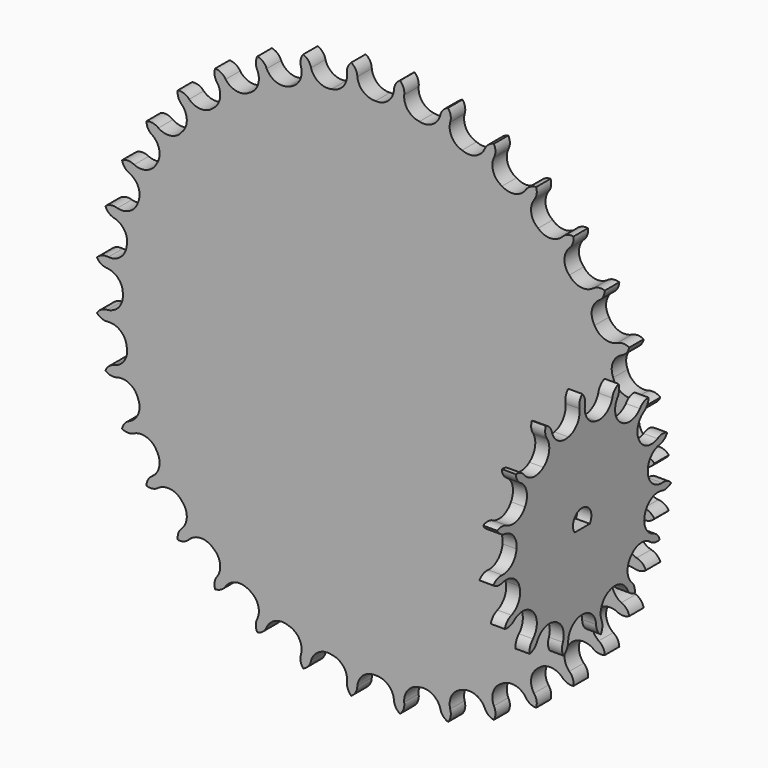
from build123d import *

# Parameters (mm, degrees)
F3_DEPTH  = 5
F4_DEPTH  = 3.8744
F5_SCALE  = 1.2905224035
F10_DEPTH = 5
F14_DEPTH = 5


with BuildPart() as f3:
    # F2 (on Front) → F3 (new body)
    with BuildSketch(Plane.XZ):
        with BuildLine():
            ThreePointArc((20.0489112304, -74.8235553482), (20.7684497693, -73.2376680729), (20.634084968, -71.5013730924))
            ThreePointArc((20.634084968, -71.5013730924), (21.1255658269, -67.9684537564), (23.9417031833, -65.7792888795))
            ThreePointArc((23.9417031833, -65.7792888795), (27.5061576147, -65.6461082686), (30.1535705707, -68.0365636874))
            ThreePointArc((30.1535705707, -68.0365636874), (31.1667100616, -69.4530108383), (32.7372972519, -70.2053605155))
            ThreePointArc((32.7372972519, -70.2053605155), (33.1705179483, -68.5186198753), (32.736689991, -66.8320353198))
            ThreePointArc((32.736689991, -66.8320353198), (32.6072191467, -63.2674442116), (35.0004285574, -60.6225205481))
            ThreePointArc((35.0004285574, -60.6225205481), (38.4876043464, -59.8724022336), (41.5098953781, -61.7668228279))
            ThreePointArc((41.5098953781, -61.7668228279), (42.7536064701, -62.9858211375), (44.4309770623, -63.4540113292))
            ThreePointArc((44.4309770623, -63.4540113292), (44.5647167245, -61.7176680849), (43.8446072542, -60.1320399728))
            ThreePointArc((43.8446072542, -60.1320399728), (43.0981186129, -56.6440853892), (44.9956836208, -53.6237676064))
            ThreePointArc((44.9956836208, -53.6237676064), (48.2996246956, -52.2795035536), (51.6049630194, -53.6203283123))
            ThreePointArc((51.6049630194, -53.6203283123), (53.0414561804, -54.6048391339), (54.7746441179, -54.7746441179))
            ThreePointArc((54.7746441179, -54.7746441179), (54.6048391339, -53.0414561804), (53.6203283123, -51.6049630194))
            ThreePointArc((53.6203283123, -51.6049630194), (52.2795035536, -48.2996246956), (53.6237676064, -44.9956836208))
            ThreePointArc((53.6237676064, -44.9956836208), (56.6440853892, -43.0981186129), (60.1320399728, -43.8446072542))
            ThreePointArc((60.1320399728, -43.8446072542), (61.7176680849, -44.5647167245), (63.4540113292, -44.4309770623))
            ThreePointArc((63.4540113292, -44.4309770623), (62.9858211375, -42.7536064701), (61.7668228279, -41.5098953781))
            ThreePointArc((61.7668228279, -41.5098953781), (59.8724022336, -38.4876043464), (60.6225205481, -35.0004285574))
            ThreePointArc((60.6225205481, -35.0004285574), (63.2674442116, -32.6072191467), (66.8320353198, -32.736689991))
            ThreePointArc((66.8320353198, -32.736689991), (68.5186198753, -33.1705179483), (70.2053605155, -32.7372972519))
            ThreePointArc((70.2053605155, -32.7372972519), (69.4530108383, -31.1667100616), (68.0365636874, -30.1535705707))
            ThreePointArc((68.0365636874, -30.1535705707), (65.6461082686, -27.5061576147), (65.7792888795, -23.9417031833))
            ThreePointArc((65.7792888795, -23.9417031833), (67.9684537564, -21.1255658269), (71.5013730924, -20.634084968))
            ThreePointArc((71.5013730924, -20.634084968), (73.2376680729, -20.7684497693), (74.8235553482, -20.0489112304))
            ThreePointArc((74.8235553482, -20.0489112304), (73.8099059497, -18.632828939), (72.2390479875, -17.88104478))
            ThreePointArc((72.2390479875, -17.88104478), (69.4251905225, -15.6889502028), (68.9373868041, -12.1555212731))
            ThreePointArc((68.9373868041, -12.1555212731), (70.6042762276, -9.0020228795), (73.9981778249, -7.9045237147))
            ThreePointArc((73.9981778249, -7.9045237147), (75.7314267861, -7.7353427534), (77.1682743143, -6.7513491864))
            ThreePointArc((77.1682743143, -6.7513491864), (75.9241244184, -5.5327987378), (74.2465853691, -5.0652124919))
            ThreePointArc((74.2465853691, -5.0652124919), (71.0948234931, -3.3950419779), (70.0008571148, 0))
            ThreePointArc((70.0008571148, 0), (71.0948234931, 3.3950419779), (74.2465853691, 5.0652124919))
            ThreePointArc((74.2465853691, 5.0652124919), (75.9241244184, 5.5327987378), (77.1682743143, 6.7513491864))
            ThreePointArc((77.1682743143, 6.7513491864), (75.7314267861, 7.7353427534), (73.9981778249, 7.9045237147))
            ThreePointArc((73.9981778249, 7.9045237147), (70.6042762276, 9.0020228795), (68.9373868041, 12.1555212731))
            ThreePointArc((68.9373868041, 12.1555212731), (69.4251905225, 15.6889502028), (72.2390479875, 17.88104478))
            ThreePointArc((72.2390479875, 17.88104478), (73.8099059497, 18.632828939), (74.8235553482, 20.0489112304))
            ThreePointArc((74.8235553482, 20.0489112304), (73.2376680729, 20.7684497693), (71.5013730924, 20.634084968))
            ThreePointArc((71.5013730924, 20.634084968), (67.9684537564, 21.1255658269), (65.7792888795, 23.9417031833))
            ThreePointArc((65.7792888795, 23.9417031833), (65.6461082686, 27.5061576147), (68.0365636874, 30.1535705707))
            ThreePointArc((68.0365636874, 30.1535705707), (69.4530108383, 31.1667100616), (70.2053605155, 32.7372972519))
            ThreePointArc((70.2053605155, 32.7372972519), (68.5186198753, 33.1705179483), (66.8320353198, 32.736689991))
            ThreePointArc((66.8320353198, 32.736689991), (63.2674442116, 32.6072191467), (60.6225205481, 35.0004285574))
            ThreePointArc((60.6225205481, 35.0004285574), (59.8724022336, 38.4876043464), (61.7668228279, 41.5098953781))
            ThreePointArc((61.7668228279, 41.5098953781), (62.9858211375, 42.7536064701), (63.4540113292, 44.4309770623))
            ThreePointArc((63.4540113292, 44.4309770623), (61.7176680849, 44.5647167245), (60.1320399728, 43.8446072542))
            ThreePointArc((60.1320399728, 43.8446072542), (56.6440853892, 43.0981186129), (53.6237676064, 44.9956836208))
            ThreePointArc((53.6237676064, 44.9956836208), (52.2795035536, 48.2996246956), (53.6203283123, 51.6049630194))
            ThreePointArc((53.6203283123, 51.6049630194), (54.6048391339, 53.0414561804), (54.7746441179, 54.7746441179))
            ThreePointArc((54.7746441179, 54.7746441179), (53.0414561804, 54.6048391339), (51.6049630194, 53.6203283123))
            ThreePointArc((51.6049630194, 53.6203283123), (48.2996246956, 52.2795035536), (44.9956836208, 53.6237676064))
            ThreePointArc((44.9956836208, 53.6237676064), (43.0981186129, 56.6440853892), (43.8446072542, 60.1320399728))
            ThreePointArc((43.8446072542, 60.1320399728), (44.5647167245, 61.7176680849), (44.4309770623, 63.4540113292))
            ThreePointArc((44.4309770623, 63.4540113292), (42.7536064701, 62.9858211375), (41.5098953781, 61.7668228279))
            ThreePointArc((41.5098953781, 61.7668228279), (38.4876043464, 59.8724022336), (35.0004285574, 60.6225205481))
            ThreePointArc((35.0004285574, 60.6225205481), (32.6072191467, 63.2674442116), (32.736689991, 66.8320353198))
            ThreePointArc((32.736689991, 66.8320353198), (33.1705179483, 68.5186198753), (32.7372972519, 70.2053605155))
            ThreePointArc((32.7372972519, 70.2053605155), (31.1667100616, 69.4530108383), (30.1535705707, 68.0365636874))
            ThreePointArc((30.1535705707, 68.0365636874), (27.5061576147, 65.6461082686), (23.9417031833, 65.7792888795))
            ThreePointArc((23.9417031833, 65.7792888795), (21.1255658269, 67.9684537564), (20.634084968, 71.5013730924))
            ThreePointArc((20.634084968, 71.5013730924), (20.7684497693, 73.2376680729), (20.0489112304, 74.8235553482))
            ThreePointArc((20.0489112304, 74.8235553482), (18.632828939, 73.8099059497), (17.88104478, 72.2390479875))
            ThreePointArc((17.88104478, 72.2390479875), (15.6889502028, 69.4251905225), (12.1555212731, 68.9373868041))
            ThreePointArc((12.1555212731, 68.9373868041), (9.0020228795, 70.6042762276), (7.9045237147, 73.9981778249))
            ThreePointArc((7.9045237147, 73.9981778249), (7.7353427534, 75.7314267861), (6.7513491864, 77.1682743143))
            ThreePointArc((6.7513491864, 77.1682743143), (5.5327987378, 75.9241244184), (5.0652124919, 74.2465853691))
            ThreePointArc((5.0652124919, 74.2465853691), (3.3950419779, 71.0948234931), (0, 70.0008571148))
            ThreePointArc((0, 70.0008571148), (-3.3950419779, 71.0948234931), (-5.0652124919, 74.2465853691))
            ThreePointArc((-5.0652124919, 74.2465853691), (-5.5327987378, 75.9241244184), (-6.7513491864, 77.1682743143))
            ThreePointArc((-6.7513491864, 77.1682743143), (-7.7353427534, 75.7314267861), (-7.9045237147, 73.9981778249))
            ThreePointArc((-7.9045237147, 73.9981778249), (-9.0020228795, 70.6042762276), (-12.1555212731, 68.9373868041))
            ThreePointArc((-12.1555212731, 68.9373868041), (-15.6889502028, 69.4251905225), (-17.88104478, 72.2390479875))
            ThreePointArc((-17.88104478, 72.2390479875), (-18.632828939, 73.8099059497), (-20.0489112304, 74.8235553482))
            ThreePointArc((-20.0489112304, 74.8235553482), (-20.7684497693, 73.2376680729), (-20.634084968, 71.5013730924))
            ThreePointArc((-20.634084968, 71.5013730924), (-21.1255658269, 67.9684537564), (-23.9417031833, 65.7792888795))
            ThreePointArc((-23.9417031833, 65.7792888795), (-27.5061576147, 65.6461082686), (-30.1535705707, 68.0365636874))
            ThreePointArc((-30.1535705707, 68.0365636874), (-31.1667100616, 69.4530108383), (-32.7372972519, 70.2053605155))
            ThreePointArc((-32.7372972519, 70.2053605155), (-33.1705179483, 68.5186198753), (-32.736689991, 66.8320353198))
            ThreePointArc((-32.736689991, 66.8320353198), (-32.6072191467, 63.2674442116), (-35.0004285574, 60.6225205481))
            ThreePointArc((-35.0004285574, 60.6225205481), (-38.4876043464, 59.8724022336), (-41.5098953781, 61.7668228279))
            ThreePointArc((-41.5098953781, 61.7668228279), (-42.7536064701, 62.9858211375), (-44.4309770623, 63.4540113292))
            ThreePointArc((-44.4309770623, 63.4540113292), (-44.5647167245, 61.7176680849), (-43.8446072542, 60.1320399728))
            ThreePointArc((-43.8446072542, 60.1320399728), (-43.0981186129, 56.6440853892), (-44.9956836208, 53.6237676064))
            ThreePointArc((-44.9956836208, 53.6237676064), (-48.2996246956, 52.2795035536), (-51.6049630194, 53.6203283123))
            ThreePointArc((-51.6049630194, 53.6203283123), (-53.0414561804, 54.6048391339), (-54.7746441179, 54.7746441179))
            ThreePointArc((-54.7746441179, 54.7746441179), (-54.6048391339, 53.0414561804), (-53.6203283123, 51.6049630194))
            ThreePointArc((-53.6203283123, 51.6049630194), (-52.2795035536, 48.2996246956), (-53.6237676064, 44.9956836208))
            ThreePointArc((-53.6237676064, 44.9956836208), (-56.6440853892, 43.0981186129), (-60.1320399728, 43.8446072542))
            ThreePointArc((-60.1320399728, 43.8446072542), (-61.7176680849, 44.5647167245), (-63.4540113292, 44.4309770623))
            ThreePointArc((-63.4540113292, 44.4309770623), (-62.9858211375, 42.7536064701), (-61.7668228279, 41.5098953781))
            ThreePointArc((-61.7668228279, 41.5098953781), (-59.8724022336, 38.4876043464), (-60.6225205481, 35.0004285574))
            ThreePointArc((-60.6225205481, 35.0004285574), (-63.2674442116, 32.6072191467), (-66.8320353198, 32.736689991))
            ThreePointArc((-66.8320353198, 32.736689991), (-68.5186198753, 33.1705179483), (-70.2053605155, 32.7372972519))
            ThreePointArc((-70.2053605155, 32.7372972519), (-69.4530108383, 31.1667100616), (-68.0365636874, 30.1535705707))
            ThreePointArc((-68.0365636874, 30.1535705707), (-65.6461082686, 27.5061576147), (-65.7792888795, 23.9417031833))
            ThreePointArc((-65.7792888795, 23.9417031833), (-67.9684537564, 21.1255658269), (-71.5013730924, 20.634084968))
            ThreePointArc((-71.5013730924, 20.634084968), (-73.2376680729, 20.7684497693), (-74.8235553482, 20.0489112304))
            ThreePointArc((-74.8235553482, 20.0489112304), (-73.8099059497, 18.632828939), (-72.2390479875, 17.88104478))
            ThreePointArc((-72.2390479875, 17.88104478), (-69.4251905225, 15.6889502028), (-68.9373868041, 12.1555212731))
            ThreePointArc((-68.9373868041, 12.1555212731), (-70.6042762276, 9.0020228795), (-73.9981778249, 7.9045237147))
            ThreePointArc((-73.9981778249, 7.9045237147), (-75.7314267861, 7.7353427534), (-77.1682743143, 6.7513491864))
            ThreePointArc((-77.1682743143, 6.7513491864), (-75.9241244184, 5.5327987378), (-74.2465853691, 5.0652124919))
            ThreePointArc((-74.2465853691, 5.0652124919), (-71.0948234931, 3.3950419779), (-70.0008571148, 0))
            ThreePointArc((-70.0008571148, 0), (-71.0948234931, -3.3950419779), (-74.2465853691, -5.0652124919))
            ThreePointArc((-74.2465853691, -5.0652124919), (-75.9241244184, -5.5327987378), (-77.1682743143, -6.7513491864))
            ThreePointArc((-77.1682743143, -6.7513491864), (-75.7314267861, -7.7353427534), (-73.9981778249, -7.9045237147))
            ThreePointArc((-73.9981778249, -7.9045237147), (-70.6042762276, -9.0020228795), (-68.9373868041, -12.1555212731))
            ThreePointArc((-68.9373868041, -12.1555212731), (-69.4251905225, -15.6889502028), (-72.2390479875, -17.88104478))
            ThreePointArc((-72.2390479875, -17.88104478), (-73.8099059497, -18.632828939), (-74.8235553482, -20.0489112304))
            ThreePointArc((-74.8235553482, -20.0489112304), (-73.2376680729, -20.7684497693), (-71.5013730924, -20.634084968))
            ThreePointArc((-71.5013730924, -20.634084968), (-67.9684537564, -21.1255658269), (-65.7792888795, -23.9417031833))
            ThreePointArc((-65.7792888795, -23.9417031833), (-65.6461082686, -27.5061576147), (-68.0365636874, -30.1535705707))
            ThreePointArc((-68.0365636874, -30.1535705707), (-69.4530108383, -31.1667100616), (-70.2053605155, -32.7372972519))
            ThreePointArc((-70.2053605155, -32.7372972519), (-68.5186198753, -33.1705179483), (-66.8320353198, -32.736689991))
            ThreePointArc((-66.8320353198, -32.736689991), (-63.2674442116, -32.6072191467), (-60.6225205481, -35.0004285574))
            ThreePointArc((-60.6225205481, -35.0004285574), (-59.8724022336, -38.4876043464), (-61.7668228279, -41.5098953781))
            ThreePointArc((-61.7668228279, -41.5098953781), (-62.9858211375, -42.7536064701), (-63.4540113292, -44.4309770623))
            ThreePointArc((-63.4540113292, -44.4309770623), (-61.7176680849, -44.5647167245), (-60.1320399728, -43.8446072542))
            ThreePointArc((-60.1320399728, -43.8446072542), (-56.6440853892, -43.0981186129), (-53.6237676064, -44.9956836208))
            ThreePointArc((-53.6237676064, -44.9956836208), (-52.2795035536, -48.2996246956), (-53.6203283123, -51.6049630194))
            ThreePointArc((-53.6203283123, -51.6049630194), (-54.6048391339, -53.0414561804), (-54.7746441179, -54.7746441179))
            ThreePointArc((-54.7746441179, -54.7746441179), (-53.0414561804, -54.6048391339), (-51.6049630194, -53.6203283123))
            ThreePointArc((-51.6049630194, -53.6203283123), (-48.2996246956, -52.2795035536), (-44.9956836208, -53.6237676064))
            ThreePointArc((-44.9956836208, -53.6237676064), (-43.0981186129, -56.6440853892), (-43.8446072542, -60.1320399728))
            ThreePointArc((-43.8446072542, -60.1320399728), (-44.5647167245, -61.7176680849), (-44.4309770623, -63.4540113292))
            ThreePointArc((-44.4309770623, -63.4540113292), (-42.7536064701, -62.9858211375), (-41.5098953781, -61.7668228279))
            ThreePointArc((-41.5098953781, -61.7668228279), (-38.4876043464, -59.8724022336), (-35.0004285574, -60.6225205481))
            ThreePointArc((-35.0004285574, -60.6225205481), (-32.6072191467, -63.2674442116), (-32.736689991, -66.8320353198))
            ThreePointArc((-32.736689991, -66.8320353198), (-33.1705179483, -68.5186198753), (-32.7372972519, -70.2053605155))
            ThreePointArc((-32.7372972519, -70.2053605155), (-31.1667100616, -69.4530108383), (-30.1535705707, -68.0365636874))
            ThreePointArc((-30.1535705707, -68.0365636874), (-27.5061576147, -65.6461082686), (-23.9417031833, -65.7792888795))
            ThreePointArc((-23.9417031833, -65.7792888795), (-21.1255658269, -67.9684537564), (-20.634084968, -71.5013730924))
            ThreePointArc((-20.634084968, -71.5013730924), (-20.7684497693, -73.2376680729), (-20.0489112304, -74.8235553482))
            ThreePointArc((-20.0489112304, -74.8235553482), (-18.632828939, -73.8099059497), (-17.88104478, -72.2390479875))
            ThreePointArc((-17.88104478, -72.2390479875), (-15.6889502028, -69.4251905225), (-12.1555212731, -68.9373868041))
            ThreePointArc((-12.1555212731, -68.9373868041), (-9.0020228795, -70.6042762276), (-7.9045237147, -73.9981778249))
            ThreePointArc((-7.9045237147, -73.9981778249), (-7.7353427534, -75.7314267861), (-6.7513491864, -77.1682743143))
            ThreePointArc((-6.7513491864, -77.1682743143), (-5.5327987378, -75.9241244184), (-5.0652124919, -74.2465853691))
            ThreePointArc((-5.0652124919, -74.2465853691), (-3.3950419779, -71.0948234931), (0, -70.0008571148))
            ThreePointArc((0, -70.0008571148), (3.3950419779, -71.0948234931), (5.0652124919, -74.2465853691))
            ThreePointArc((5.0652124919, -74.2465853691), (5.5327987378, -75.9241244184), (6.7513491864, -77.1682743143))
            ThreePointArc((6.7513491864, -77.1682743143), (7.7353427534, -75.7314267861), (7.9045237147, -73.9981778249))
            ThreePointArc((7.9045237147, -73.9981778249), (9.0020228795, -70.6042762276), (12.1555212731, -68.9373868041))
            ThreePointArc((12.1555212731, -68.9373868041), (15.6889502028, -69.4251905225), (17.88104478, -72.2390479875))
            ThreePointArc((17.88104478, -72.2390479875), (18.632828939, -73.8099059497), (20.0489112304, -74.8235553482))
        make_face()
    extrude(amount=F3_DEPTH)

    # F2 (on Front) → F4 (join)
    with BuildSketch(Plane.XZ):
        with BuildLine():
            ThreePointArc((20.0489112304, -74.8235553482), (20.7684497693, -73.2376680729), (20.634084968, -71.5013730924))
            ThreePointArc((20.634084968, -71.5013730924), (21.1255658269, -67.9684537564), (23.9417031833, -65.7792888795))
            ThreePointArc((23.9417031833, -65.7792888795), (27.5061576147, -65.6461082686), (30.1535705707, -68.0365636874))
            ThreePointArc((30.1535705707, -68.0365636874), (31.1667100616, -69.4530108383), (32.7372972519, -70.2053605155))
            ThreePointArc((32.7372972519, -70.2053605155), (33.1705179483, -68.5186198753), (32.736689991, -66.8320353198))
            ThreePointArc((32.736689991, -66.8320353198), (32.6072191467, -63.2674442116), (35.0004285574, -60.6225205481))
            ThreePointArc((35.0004285574, -60.6225205481), (38.4876043464, -59.8724022336), (41.5098953781, -61.7668228279))
            ThreePointArc((41.5098953781, -61.7668228279), (42.7536064701, -62.9858211375), (44.4309770623, -63.4540113292))
            ThreePointArc((44.4309770623, -63.4540113292), (44.5647167245, -61.7176680849), (43.8446072542, -60.1320399728))
            ThreePointArc((43.8446072542, -60.1320399728), (43.0981186129, -56.6440853892), (44.9956836208, -53.6237676064))
            ThreePointArc((44.9956836208, -53.6237676064), (48.2996246956, -52.2795035536), (51.6049630194, -53.6203283123))
            ThreePointArc((51.6049630194, -53.6203283123), (53.0414561804, -54.6048391339), (54.7746441179, -54.7746441179))
            ThreePointArc((54.7746441179, -54.7746441179), (54.6048391339, -53.0414561804), (53.6203283123, -51.6049630194))
            ThreePointArc((53.6203283123, -51.6049630194), (52.2795035536, -48.2996246956), (53.6237676064, -44.9956836208))
            ThreePointArc((53.6237676064, -44.9956836208), (56.6440853892, -43.0981186129), (60.1320399728, -43.8446072542))
            ThreePointArc((60.1320399728, -43.8446072542), (61.7176680849, -44.5647167245), (63.4540113292, -44.4309770623))
            ThreePointArc((63.4540113292, -44.4309770623), (62.9858211375, -42.7536064701), (61.7668228279, -41.5098953781))
            ThreePointArc((61.7668228279, -41.5098953781), (59.8724022336, -38.4876043464), (60.6225205481, -35.0004285574))
            ThreePointArc((60.6225205481, -35.0004285574), (63.2674442116, -32.6072191467), (66.8320353198, -32.736689991))
            ThreePointArc((66.8320353198, -32.736689991), (68.5186198753, -33.1705179483), (70.2053605155, -32.7372972519))
            ThreePointArc((70.2053605155, -32.7372972519), (69.4530108383, -31.1667100616), (68.0365636874, -30.1535705707))
            ThreePointArc((68.0365636874, -30.1535705707), (65.6461082686, -27.5061576147), (65.7792888795, -23.9417031833))
            ThreePointArc((65.7792888795, -23.9417031833), (67.9684537564, -21.1255658269), (71.5013730924, -20.634084968))
            ThreePointArc((71.5013730924, -20.634084968), (73.2376680729, -20.7684497693), (74.8235553482, -20.0489112304))
            ThreePointArc((74.8235553482, -20.0489112304), (73.8099059497, -18.632828939), (72.2390479875, -17.88104478))
            ThreePointArc((72.2390479875, -17.88104478), (69.4251905225, -15.6889502028), (68.9373868041, -12.1555212731))
            ThreePointArc((68.9373868041, -12.1555212731), (70.6042762276, -9.0020228795), (73.9981778249, -7.9045237147))
            ThreePointArc((73.9981778249, -7.9045237147), (75.7314267861, -7.7353427534), (77.1682743143, -6.7513491864))
            ThreePointArc((77.1682743143, -6.7513491864), (75.9241244184, -5.5327987378), (74.2465853691, -5.0652124919))
            ThreePointArc((74.2465853691, -5.0652124919), (71.0948234931, -3.3950419779), (70.0008571148, 0))
            ThreePointArc((70.0008571148, 0), (71.0948234931, 3.3950419779), (74.2465853691, 5.0652124919))
            ThreePointArc((74.2465853691, 5.0652124919), (75.9241244184, 5.5327987378), (77.1682743143, 6.7513491864))
            ThreePointArc((77.1682743143, 6.7513491864), (75.7314267861, 7.7353427534), (73.9981778249, 7.9045237147))
            ThreePointArc((73.9981778249, 7.9045237147), (70.6042762276, 9.0020228795), (68.9373868041, 12.1555212731))
            ThreePointArc((68.9373868041, 12.1555212731), (69.4251905225, 15.6889502028), (72.2390479875, 17.88104478))
            ThreePointArc((72.2390479875, 17.88104478), (73.8099059497, 18.632828939), (74.8235553482, 20.0489112304))
            ThreePointArc((74.8235553482, 20.0489112304), (73.2376680729, 20.7684497693), (71.5013730924, 20.634084968))
            ThreePointArc((71.5013730924, 20.634084968), (67.9684537564, 21.1255658269), (65.7792888795, 23.9417031833))
            ThreePointArc((65.7792888795, 23.9417031833), (65.6461082686, 27.5061576147), (68.0365636874, 30.1535705707))
            ThreePointArc((68.0365636874, 30.1535705707), (69.4530108383, 31.1667100616), (70.2053605155, 32.7372972519))
            ThreePointArc((70.2053605155, 32.7372972519), (68.5186198753, 33.1705179483), (66.8320353198, 32.736689991))
            ThreePointArc((66.8320353198, 32.736689991), (63.2674442116, 32.6072191467), (60.6225205481, 35.0004285574))
            ThreePointArc((60.6225205481, 35.0004285574), (59.8724022336, 38.4876043464), (61.7668228279, 41.5098953781))
            ThreePointArc((61.7668228279, 41.5098953781), (62.9858211375, 42.7536064701), (63.4540113292, 44.4309770623))
            ThreePointArc((63.4540113292, 44.4309770623), (61.7176680849, 44.5647167245), (60.1320399728, 43.8446072542))
            ThreePointArc((60.1320399728, 43.8446072542), (56.6440853892, 43.0981186129), (53.6237676064, 44.9956836208))
            ThreePointArc((53.6237676064, 44.9956836208), (52.2795035536, 48.2996246956), (53.6203283123, 51.6049630194))
            ThreePointArc((53.6203283123, 51.6049630194), (54.6048391339, 53.0414561804), (54.7746441179, 54.7746441179))
            ThreePointArc((54.7746441179, 54.7746441179), (53.0414561804, 54.6048391339), (51.6049630194, 53.6203283123))
            ThreePointArc((51.6049630194, 53.6203283123), (48.2996246956, 52.2795035536), (44.9956836208, 53.6237676064))
            ThreePointArc((44.9956836208, 53.6237676064), (43.0981186129, 56.6440853892), (43.8446072542, 60.1320399728))
            ThreePointArc((43.8446072542, 60.1320399728), (44.5647167245, 61.7176680849), (44.4309770623, 63.4540113292))
            ThreePointArc((44.4309770623, 63.4540113292), (42.7536064701, 62.9858211375), (41.5098953781, 61.7668228279))
            ThreePointArc((41.5098953781, 61.7668228279), (38.4876043464, 59.8724022336), (35.0004285574, 60.6225205481))
            ThreePointArc((35.0004285574, 60.6225205481), (32.6072191467, 63.2674442116), (32.736689991, 66.8320353198))
            ThreePointArc((32.736689991, 66.8320353198), (33.1705179483, 68.5186198753), (32.7372972519, 70.2053605155))
            ThreePointArc((32.7372972519, 70.2053605155), (31.1667100616, 69.4530108383), (30.1535705707, 68.0365636874))
            ThreePointArc((30.1535705707, 68.0365636874), (27.5061576147, 65.6461082686), (23.9417031833, 65.7792888795))
            ThreePointArc((23.9417031833, 65.7792888795), (21.1255658269, 67.9684537564), (20.634084968, 71.5013730924))
            ThreePointArc((20.634084968, 71.5013730924), (20.7684497693, 73.2376680729), (20.0489112304, 74.8235553482))
            ThreePointArc((20.0489112304, 74.8235553482), (18.632828939, 73.8099059497), (17.88104478, 72.2390479875))
            ThreePointArc((17.88104478, 72.2390479875), (15.6889502028, 69.4251905225), (12.1555212731, 68.9373868041))
            ThreePointArc((12.1555212731, 68.9373868041), (9.0020228795, 70.6042762276), (7.9045237147, 73.9981778249))
            ThreePointArc((7.9045237147, 73.9981778249), (7.7353427534, 75.7314267861), (6.7513491864, 77.1682743143))
            ThreePointArc((6.7513491864, 77.1682743143), (5.5327987378, 75.9241244184), (5.0652124919, 74.2465853691))
            ThreePointArc((5.0652124919, 74.2465853691), (3.3950419779, 71.0948234931), (0, 70.0008571148))
            ThreePointArc((0, 70.0008571148), (-3.3950419779, 71.0948234931), (-5.0652124919, 74.2465853691))
            ThreePointArc((-5.0652124919, 74.2465853691), (-5.5327987378, 75.9241244184), (-6.7513491864, 77.1682743143))
            ThreePointArc((-6.7513491864, 77.1682743143), (-7.7353427534, 75.7314267861), (-7.9045237147, 73.9981778249))
            ThreePointArc((-7.9045237147, 73.9981778249), (-9.0020228795, 70.6042762276), (-12.1555212731, 68.9373868041))
            ThreePointArc((-12.1555212731, 68.9373868041), (-15.6889502028, 69.4251905225), (-17.88104478, 72.2390479875))
            ThreePointArc((-17.88104478, 72.2390479875), (-18.632828939, 73.8099059497), (-20.0489112304, 74.8235553482))
            ThreePointArc((-20.0489112304, 74.8235553482), (-20.7684497693, 73.2376680729), (-20.634084968, 71.5013730924))
            ThreePointArc((-20.634084968, 71.5013730924), (-21.1255658269, 67.9684537564), (-23.9417031833, 65.7792888795))
            ThreePointArc((-23.9417031833, 65.7792888795), (-27.5061576147, 65.6461082686), (-30.1535705707, 68.0365636874))
            ThreePointArc((-30.1535705707, 68.0365636874), (-31.1667100616, 69.4530108383), (-32.7372972519, 70.2053605155))
            ThreePointArc((-32.7372972519, 70.2053605155), (-33.1705179483, 68.5186198753), (-32.736689991, 66.8320353198))
            ThreePointArc((-32.736689991, 66.8320353198), (-32.6072191467, 63.2674442116), (-35.0004285574, 60.6225205481))
            ThreePointArc((-35.0004285574, 60.6225205481), (-38.4876043464, 59.8724022336), (-41.5098953781, 61.7668228279))
            ThreePointArc((-41.5098953781, 61.7668228279), (-42.7536064701, 62.9858211375), (-44.4309770623, 63.4540113292))
            ThreePointArc((-44.4309770623, 63.4540113292), (-44.5647167245, 61.7176680849), (-43.8446072542, 60.1320399728))
            ThreePointArc((-43.8446072542, 60.1320399728), (-43.0981186129, 56.6440853892), (-44.9956836208, 53.6237676064))
            ThreePointArc((-44.9956836208, 53.6237676064), (-48.2996246956, 52.2795035536), (-51.6049630194, 53.6203283123))
            ThreePointArc((-51.6049630194, 53.6203283123), (-53.0414561804, 54.6048391339), (-54.7746441179, 54.7746441179))
            ThreePointArc((-54.7746441179, 54.7746441179), (-54.6048391339, 53.0414561804), (-53.6203283123, 51.6049630194))
            ThreePointArc((-53.6203283123, 51.6049630194), (-52.2795035536, 48.2996246956), (-53.6237676064, 44.9956836208))
            ThreePointArc((-53.6237676064, 44.9956836208), (-56.6440853892, 43.0981186129), (-60.1320399728, 43.8446072542))
            ThreePointArc((-60.1320399728, 43.8446072542), (-61.7176680849, 44.5647167245), (-63.4540113292, 44.4309770623))
            ThreePointArc((-63.4540113292, 44.4309770623), (-62.9858211375, 42.7536064701), (-61.7668228279, 41.5098953781))
            ThreePointArc((-61.7668228279, 41.5098953781), (-59.8724022336, 38.4876043464), (-60.6225205481, 35.0004285574))
            ThreePointArc((-60.6225205481, 35.0004285574), (-63.2674442116, 32.6072191467), (-66.8320353198, 32.736689991))
            ThreePointArc((-66.8320353198, 32.736689991), (-68.5186198753, 33.1705179483), (-70.2053605155, 32.7372972519))
            ThreePointArc((-70.2053605155, 32.7372972519), (-69.4530108383, 31.1667100616), (-68.0365636874, 30.1535705707))
            ThreePointArc((-68.0365636874, 30.1535705707), (-65.6461082686, 27.5061576147), (-65.7792888795, 23.9417031833))
            ThreePointArc((-65.7792888795, 23.9417031833), (-67.9684537564, 21.1255658269), (-71.5013730924, 20.634084968))
            ThreePointArc((-71.5013730924, 20.634084968), (-73.2376680729, 20.7684497693), (-74.8235553482, 20.0489112304))
            ThreePointArc((-74.8235553482, 20.0489112304), (-73.8099059497, 18.632828939), (-72.2390479875, 17.88104478))
            ThreePointArc((-72.2390479875, 17.88104478), (-69.4251905225, 15.6889502028), (-68.9373868041, 12.1555212731))
            ThreePointArc((-68.9373868041, 12.1555212731), (-70.6042762276, 9.0020228795), (-73.9981778249, 7.9045237147))
            ThreePointArc((-73.9981778249, 7.9045237147), (-75.7314267861, 7.7353427534), (-77.1682743143, 6.7513491864))
            ThreePointArc((-77.1682743143, 6.7513491864), (-75.9241244184, 5.5327987378), (-74.2465853691, 5.0652124919))
            ThreePointArc((-74.2465853691, 5.0652124919), (-71.0948234931, 3.3950419779), (-70.0008571148, 0))
            ThreePointArc((-70.0008571148, 0), (-71.0948234931, -3.3950419779), (-74.2465853691, -5.0652124919))
            ThreePointArc((-74.2465853691, -5.0652124919), (-75.9241244184, -5.5327987378), (-77.1682743143, -6.7513491864))
            ThreePointArc((-77.1682743143, -6.7513491864), (-75.7314267861, -7.7353427534), (-73.9981778249, -7.9045237147))
            ThreePointArc((-73.9981778249, -7.9045237147), (-70.6042762276, -9.0020228795), (-68.9373868041, -12.1555212731))
            ThreePointArc((-68.9373868041, -12.1555212731), (-69.4251905225, -15.6889502028), (-72.2390479875, -17.88104478))
            ThreePointArc((-72.2390479875, -17.88104478), (-73.8099059497, -18.632828939), (-74.8235553482, -20.0489112304))
            ThreePointArc((-74.8235553482, -20.0489112304), (-73.2376680729, -20.7684497693), (-71.5013730924, -20.634084968))
            ThreePointArc((-71.5013730924, -20.634084968), (-67.9684537564, -21.1255658269), (-65.7792888795, -23.9417031833))
            ThreePointArc((-65.7792888795, -23.9417031833), (-65.6461082686, -27.5061576147), (-68.0365636874, -30.1535705707))
            ThreePointArc((-68.0365636874, -30.1535705707), (-69.4530108383, -31.1667100616), (-70.2053605155, -32.7372972519))
            ThreePointArc((-70.2053605155, -32.7372972519), (-68.5186198753, -33.1705179483), (-66.8320353198, -32.736689991))
            ThreePointArc((-66.8320353198, -32.736689991), (-63.2674442116, -32.6072191467), (-60.6225205481, -35.0004285574))
            ThreePointArc((-60.6225205481, -35.0004285574), (-59.8724022336, -38.4876043464), (-61.7668228279, -41.5098953781))
            ThreePointArc((-61.7668228279, -41.5098953781), (-62.9858211375, -42.7536064701), (-63.4540113292, -44.4309770623))
            ThreePointArc((-63.4540113292, -44.4309770623), (-61.7176680849, -44.5647167245), (-60.1320399728, -43.8446072542))
            ThreePointArc((-60.1320399728, -43.8446072542), (-56.6440853892, -43.0981186129), (-53.6237676064, -44.9956836208))
            ThreePointArc((-53.6237676064, -44.9956836208), (-52.2795035536, -48.2996246956), (-53.6203283123, -51.6049630194))
            ThreePointArc((-53.6203283123, -51.6049630194), (-54.6048391339, -53.0414561804), (-54.7746441179, -54.7746441179))
            ThreePointArc((-54.7746441179, -54.7746441179), (-53.0414561804, -54.6048391339), (-51.6049630194, -53.6203283123))
            ThreePointArc((-51.6049630194, -53.6203283123), (-48.2996246956, -52.2795035536), (-44.9956836208, -53.6237676064))
            ThreePointArc((-44.9956836208, -53.6237676064), (-43.0981186129, -56.6440853892), (-43.8446072542, -60.1320399728))
            ThreePointArc((-43.8446072542, -60.1320399728), (-44.5647167245, -61.7176680849), (-44.4309770623, -63.4540113292))
            ThreePointArc((-44.4309770623, -63.4540113292), (-42.7536064701, -62.9858211375), (-41.5098953781, -61.7668228279))
            ThreePointArc((-41.5098953781, -61.7668228279), (-38.4876043464, -59.8724022336), (-35.0004285574, -60.6225205481))
            ThreePointArc((-35.0004285574, -60.6225205481), (-32.6072191467, -63.2674442116), (-32.736689991, -66.8320353198))
            ThreePointArc((-32.736689991, -66.8320353198), (-33.1705179483, -68.5186198753), (-32.7372972519, -70.2053605155))
            ThreePointArc((-32.7372972519, -70.2053605155), (-31.1667100616, -69.4530108383), (-30.1535705707, -68.0365636874))
            ThreePointArc((-30.1535705707, -68.0365636874), (-27.5061576147, -65.6461082686), (-23.9417031833, -65.7792888795))
            ThreePointArc((-23.9417031833, -65.7792888795), (-21.1255658269, -67.9684537564), (-20.634084968, -71.5013730924))
            ThreePointArc((-20.634084968, -71.5013730924), (-20.7684497693, -73.2376680729), (-20.0489112304, -74.8235553482))
            ThreePointArc((-20.0489112304, -74.8235553482), (-18.632828939, -73.8099059497), (-17.88104478, -72.2390479875))
            ThreePointArc((-17.88104478, -72.2390479875), (-15.6889502028, -69.4251905225), (-12.1555212731, -68.9373868041))
            ThreePointArc((-12.1555212731, -68.9373868041), (-9.0020228795, -70.6042762276), (-7.9045237147, -73.9981778249))
            ThreePointArc((-7.9045237147, -73.9981778249), (-7.7353427534, -75.7314267861), (-6.7513491864, -77.1682743143))
            ThreePointArc((-6.7513491864, -77.1682743143), (-5.5327987378, -75.9241244184), (-5.0652124919, -74.2465853691))
            ThreePointArc((-5.0652124919, -74.2465853691), (-3.3950419779, -71.0948234931), (0, -70.0008571148))
            ThreePointArc((0, -70.0008571148), (3.3950419779, -71.0948234931), (5.0652124919, -74.2465853691))
            ThreePointArc((5.0652124919, -74.2465853691), (5.5327987378, -75.9241244184), (6.7513491864, -77.1682743143))
            ThreePointArc((6.7513491864, -77.1682743143), (7.7353427534, -75.7314267861), (7.9045237147, -73.9981778249))
            ThreePointArc((7.9045237147, -73.9981778249), (9.0020228795, -70.6042762276), (12.1555212731, -68.9373868041))
            ThreePointArc((12.1555212731, -68.9373868041), (15.6889502028, -69.4251905225), (17.88104478, -72.2390479875))
            ThreePointArc((17.88104478, -72.2390479875), (18.632828939, -73.8099059497), (20.0489112304, -74.8235553482))
        make_face()
    extrude(amount=F4_DEPTH)


with BuildPart() as f3_1:
    # F5: moved
    add(f3.part.scale(F5_SCALE))


with BuildPart() as f10:
    # F9 (on offset) → F10 (new body)
    with BuildSketch(Plane.YZ.offset(95)):
        with BuildLine():
            ThreePointArc((-25.554661374, 14.7539906234), (-29.0727784489, 11.8473035562), (-33.6237468937, 12.185923805))
            ThreePointArc((-33.6237468937, 12.185923805), (-35.7794571409, 12.8214088261), (-37.9744193385, 12.3386367961))
            ThreePointArc((-37.9744193385, 12.3386367961), (-36.482423898, 10.6578996103), (-34.3648889497, 9.9049231005))
            ThreePointArc((-34.3648889497, 9.9049231005), (-30.4840421486, 7.5038805009), (-29.346333438, 3.0844239338))
            ThreePointArc((-29.346333438, 3.0844239338), (-31.378037171, -1.0019139621), (-35.6732829849, -2.5436145999))
            ThreePointArc((-35.6732829849, -2.5436145999), (-37.9010973334, -2.8398764949), (-39.7099340038, -4.1736822459))
            ThreePointArc((-39.7099340038, -4.1736822459), (-37.6633109456, -5.1022628505), (-35.4225833742, -4.9288620643))
            ThreePointArc((-35.4225833742, -4.9288620643), (-30.9006614005, -5.5438410246), (-28.0637578474, -9.1184676749))
            ThreePointArc((-28.0637578474, -9.1184676749), (-28.2577482057, -13.6778914542), (-31.5545843664, -16.8333389325))
            ThreePointArc((-31.5545843664, -16.8333389325), (-33.4692934763, -18.0101213705), (-34.5792403265, -19.9643337109))
            ThreePointArc((-34.5792403265, -19.9643337109), (-32.3318693702, -19.9801977119), (-30.3553913293, -18.9104022009))
            ThreePointArc((-30.3553913293, -18.9104022009), (-25.9742755724, -17.6329820728), (-21.9287035738, -19.744693384))
            ThreePointArc((-21.9287035738, -19.744693384), (-20.2514378621, -23.9888372542), (-21.9798114465, -28.2124260376))
            ThreePointArc((-21.9798114465, -28.2124260376), (-23.2503447181, -30.0662526442), (-23.4694818542, -32.302970507))
            ThreePointArc((-23.4694818542, -32.302970507), (-21.4099538549, -31.4033748745), (-20.0394763534, -29.6221620013))
            ThreePointArc((-20.0394763534, -29.6221620013), (-16.5567015291, -26.6732203299), (-12.0019772362, -26.9568822321))
            ThreePointArc((-12.0019772362, -26.9568822321), (-8.7434699336, -30.1518951612), (-8.6045294473, -34.7133283789))
            ThreePointArc((-8.6045294473, -34.7133283789), (-9.0112001355, -36.9236556925), (-8.3016367558, -39.0561302391))
            ThreePointArc((-8.3016367558, -39.0561302391), (-6.7860628148, -37.3966232306), (-6.2585538631, -35.2119808828))
            ThreePointArc((-6.2585538631, -35.2119808828), (-4.2763233784, -31.1014164735), (0, -29.5079812467))
            ThreePointArc((0, -29.5079812467), (4.2763233784, -31.1014164735), (6.2585538631, -35.2119808828))
            ThreePointArc((6.2585538631, -35.2119808828), (6.7860628148, -37.3966232306), (8.3016367558, -39.0561302391))
            ThreePointArc((8.3016367558, -39.0561302391), (9.0112001355, -36.9236556925), (8.6045294473, -34.7133283789))
            ThreePointArc((8.6045294473, -34.7133283789), (8.7434699336, -30.1518951612), (12.0019772362, -26.9568822321))
            ThreePointArc((12.0019772362, -26.9568822321), (16.5567015291, -26.6732203299), (20.0394763534, -29.6221620013))
            ThreePointArc((20.0394763534, -29.6221620013), (21.4099538549, -31.4033748745), (23.4694818542, -32.302970507))
            ThreePointArc((23.4694818542, -32.302970507), (23.2503447181, -30.0662526442), (21.9798114465, -28.2124260376))
            ThreePointArc((21.9798114465, -28.2124260376), (20.2514378621, -23.9888372542), (21.9287035738, -19.744693384))
            ThreePointArc((21.9287035738, -19.744693384), (25.9742755724, -17.6329820728), (30.3553913293, -18.9104022009))
            ThreePointArc((30.3553913293, -18.9104022009), (32.3318693702, -19.9801977119), (34.5792403265, -19.9643337109))
            ThreePointArc((34.5792403265, -19.9643337109), (33.4692934763, -18.0101213705), (31.5545843664, -16.8333389325))
            ThreePointArc((31.5545843664, -16.8333389325), (28.2577482057, -13.6778914542), (28.0637578474, -9.1184676749))
            ThreePointArc((28.0637578474, -9.1184676749), (30.9006614005, -5.5438410246), (35.4225833742, -4.9288620643))
            ThreePointArc((35.4225833742, -4.9288620643), (37.6633109456, -5.1022628505), (39.7099340038, -4.1736822459))
            ThreePointArc((39.7099340038, -4.1736822459), (37.9010973334, -2.8398764949), (35.6732829849, -2.5436145999))
            ThreePointArc((35.6732829849, -2.5436145999), (31.378037171, -1.0019139621), (29.346333438, 3.0844239338))
            ThreePointArc((29.346333438, 3.0844239338), (30.4840421486, 7.5038805009), (34.3648889497, 9.9049231005))
            ThreePointArc((34.3648889497, 9.9049231005), (36.482423898, 10.6578996103), (37.9744193385, 12.3386367961))
            ThreePointArc((37.9744193385, 12.3386367961), (35.7794571409, 12.8214088261), (33.6237468937, 12.185923805))
            ThreePointArc((33.6237468937, 12.185923805), (29.0727784489, 11.8473035562), (25.554661374, 14.7539906234))
            ThreePointArc((25.554661374, 14.7539906234), (24.7964550705, 19.2541129172), (27.3651930305, 23.0260570779))
            ThreePointArc((27.3651930305, 23.0260570779), (28.9933943261, 24.5752144046), (29.6727825827, 26.717493443))
            ThreePointArc((29.6727825827, 26.717493443), (27.4712237625, 26.2657560822), (25.7603595024, 24.8084052784))
            ThreePointArc((25.7603595024, 24.8084052784), (21.7405722151, 22.6480146603), (17.3443562017, 23.8724582983))
            ThreePointArc((17.3443562017, 23.8724582983), (14.8213356419, 27.675134292), (15.6338066314, 32.1657766013))
            ThreePointArc((15.6338066314, 32.1657766013), (16.4911434785, 34.2432513695), (16.2404521496, 36.4766527529))
            ThreePointArc((16.2404521496, 36.4766527529), (14.4129662274, 35.1685154948), (13.4427719277, 33.1412881019))
            ThreePointArc((13.4427719277, 33.1412881019), (10.6492235384, 29.5326782788), (6.1350542736, 28.863161059))
            ThreePointArc((6.1350542736, 28.863161059), (2.2834726333, 31.310873527), (1.1991930371, 35.7437411334))
            ThreePointArc((1.1991930371, 35.7437411334), (1.1374241061, 37.9903190824), (0, 39.9286674218))
            ThreePointArc((0, 39.9286674218), (-1.1374241061, 37.9903190824), (-1.1991930371, 35.7437411334))
            ThreePointArc((-1.1991930371, 35.7437411334), (-2.2834726333, 31.310873527), (-6.1350542736, 28.863161059))
            ThreePointArc((-6.1350542736, 28.863161059), (-10.6492235384, 29.5326782788), (-13.4427719277, 33.1412881019))
            ThreePointArc((-13.4427719277, 33.1412881019), (-14.4129662274, 35.1685154948), (-16.2404521496, 36.4766527529))
            ThreePointArc((-16.2404521496, 36.4766527529), (-16.4911434785, 34.2432513695), (-15.6338066314, 32.1657766013))
            ThreePointArc((-15.6338066314, 32.1657766013), (-14.8213356419, 27.675134292), (-17.3443562017, 23.8724582983))
            ThreePointArc((-17.3443562017, 23.8724582983), (-21.7405722151, 22.6480146603), (-25.7603595024, 24.8084052784))
            ThreePointArc((-25.7603595024, 24.8084052784), (-27.4712237625, 26.2657560822), (-29.6727825827, 26.717493443))
            ThreePointArc((-29.6727825827, 26.717493443), (-28.9933943261, 24.5752144046), (-27.3651930305, 23.0260570779))
            ThreePointArc((-27.3651930305, 23.0260570779), (-24.7964550705, 19.2541129172), (-25.554661374, 14.7539906234))
        make_face()
    extrude(amount=F10_DEPTH)


with BuildPart() as f10_1:
    # F11: moved
    add(f10.part.moved(Location((0, -39.2, 4.1))))

    # F13 (on face) → F14 (cut, through all)
    with BuildSketch(Plane.YZ.offset(100)):
        with BuildLine():
            Line((-39.2, 1.8), (-35.8058874503, 1.8))
            ThreePointArc((-35.8058874503, 1.8), (-39.2, 8.2), (-42.5941125497, 1.8))
            Line((-42.5941125497, 1.8), (-39.2, 1.8))
        make_face()
    extrude(amount=-F14_DEPTH, mode=Mode.SUBTRACT)


solid = Compound([f3_1.part, f10_1.part])
